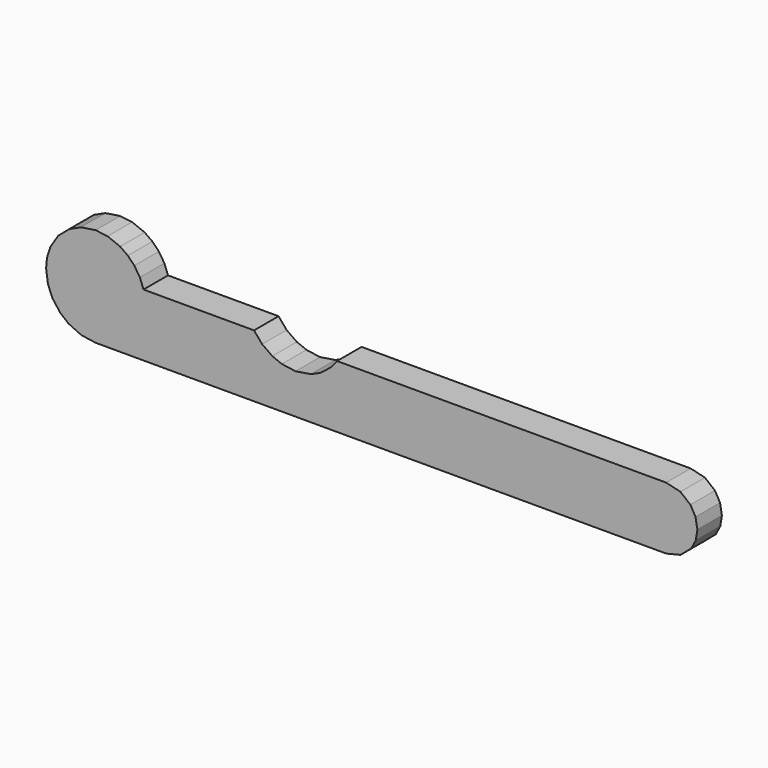
from build123d import *

# Parameters (mm, degrees)
F1_DEPTH = 5.5


with BuildPart() as f1:
    # F0 (on Front) → F1 (new body)
    with BuildSketch(Plane.XZ):
        Polygon((55.353509, 1.693215), (52.794408, 2.311019), (-6.222746, 2.311019), (-7.314819, 0.952043), (-9.28149, -0.565302), (-10.914355, -1.286332), (-13.662889, -1.721231), (-16.113049, -1.378229), (-17.82859, -0.684301), (-19.656146, 0.608152), (-21.103031, 2.311019), (-40.929154, 2.311019), (-41.581502, 4.01386), (-42.569435, 5.549595), (-43.738495, 6.758915), (-45.117588, 7.7311), (-47.370848, 8.632393), (-49.505108, 8.890533), (-52.146022, 8.492388), (-54.236976, 7.528966), (-56.218531, 5.827852), (-57.632625, 3.606978), (-58.221524, 1.75448), (-58.395235, 0.000864), (-58.054392, -2.445791), (-57.207785, -4.440911), (-55.818634, -6.258382), (-54.365601, -7.444969), (-52.089152, -8.507273), (-49.505108, -8.88967), (52.776907, -8.88967), (52.794408, -8.890559), (55.366641, -8.26577), (57.312763, -6.599657), (58.103821, -5.077943), (58.39521, -3.289325), (58.062673, -1.384351), (57.142558, 0.239751), align=None)
    extrude(amount=F1_DEPTH)


solid = f1.part
